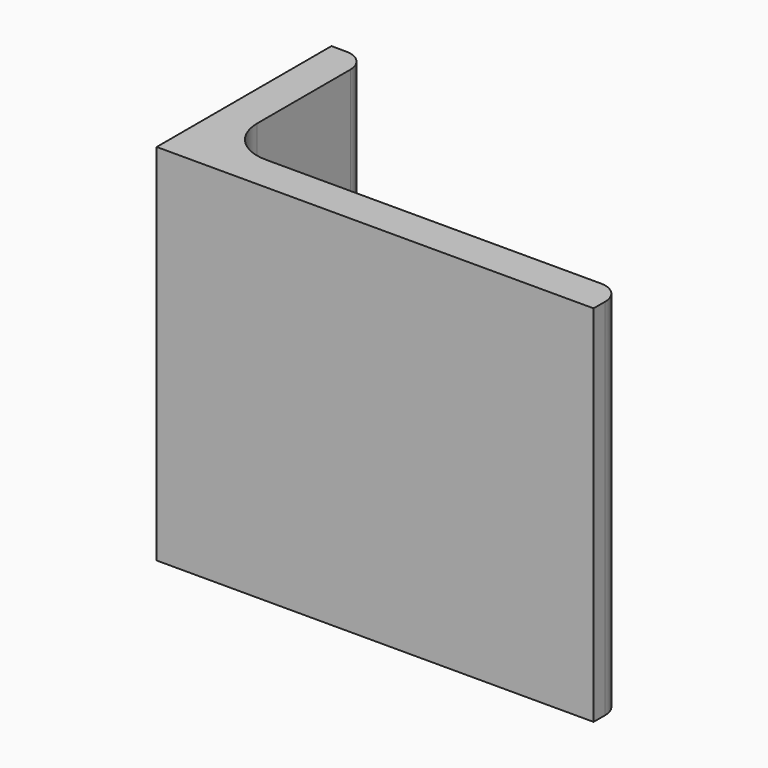
from build123d import *

# Parameters (mm, degrees)
EXTRUDE_DEPTH = 50


with BuildPart() as part:
    # Sketch → Extrude (new body)
    with BuildSketch(Plane.XY):
        with BuildLine():
            Line((0, 0), (60, 0))
            Line((60, 0), (60, 2))
            ThreePointArc((60, 2), (59.12132, 4.12132), (57, 5))
            Line((57, 5), (11, 5))
            ThreePointArc((5, 11), (6.757359, 6.757359), (11, 5))
            Line((5, 27), (5, 11))
            ThreePointArc((5, 27), (4.12132, 29.12132), (2, 30))
            Line((0, 30), (2, 30))
            Line((0, 0), (0, 30))
        make_face()
    extrude(amount=EXTRUDE_DEPTH)


solid = part.part
